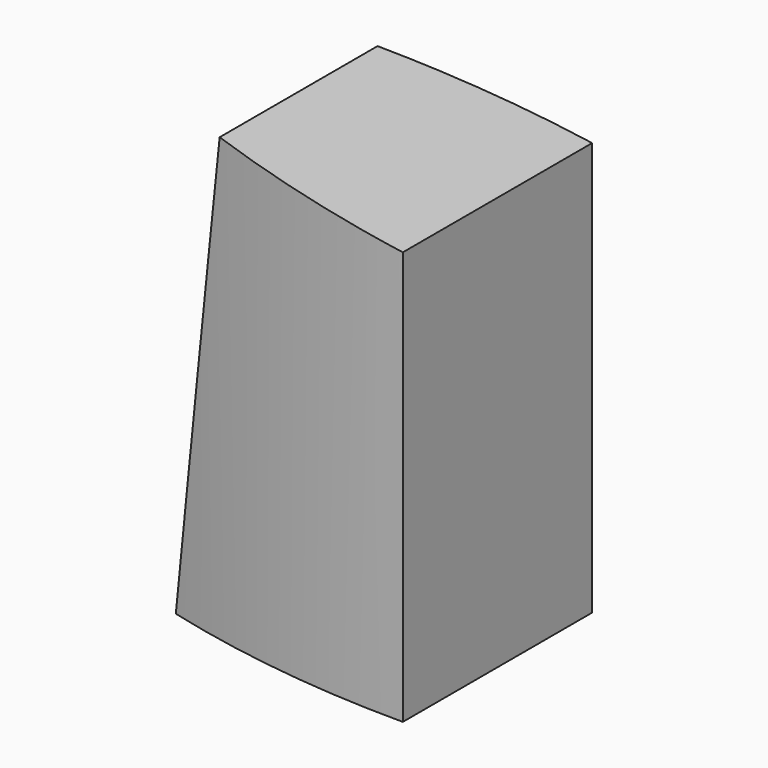
from build123d import *

# Parameters (mm, degrees)
F1_DEPTH = 152.4
F3_DEPTH = 488.896109


with BuildPart() as f1:
    # F0 (on Front) → F1 (new body, symmetric)
    with BuildSketch(Plane.XZ):
        Polygon((-279.4, 0), (0, 0), (0, 457.2), (-219.971632, 488.895109), align=None)
    extrude(amount=F1_DEPTH, both=True)

    # F2 (on Top) → F3 (cut, through all)
    with BuildSketch(Plane.XY):
        with BuildLine():
            ThreePointArc((0, -130.878076), (-140.838344, -122.126617), (-279.4, -95.430277))
            Line((-279.4, -95.430277), (-279.4, -152.4))
            Line((-279.4, -152.4), (0, -152.4))
            Line((0, -152.4), (0, -130.878076))
        make_face()
        with BuildLine():
            Line((-279.4, 152.4), (-279.4, 95.430277))
            ThreePointArc((-279.4, 95.430277), (-140.838344, 122.126617), (0, 130.878076))
            Line((0, 130.878076), (0, 152.4))
            Line((0, 152.4), (-279.4, 152.4))
        make_face()
    extrude(amount=F3_DEPTH, mode=Mode.SUBTRACT)


solid = f1.part
